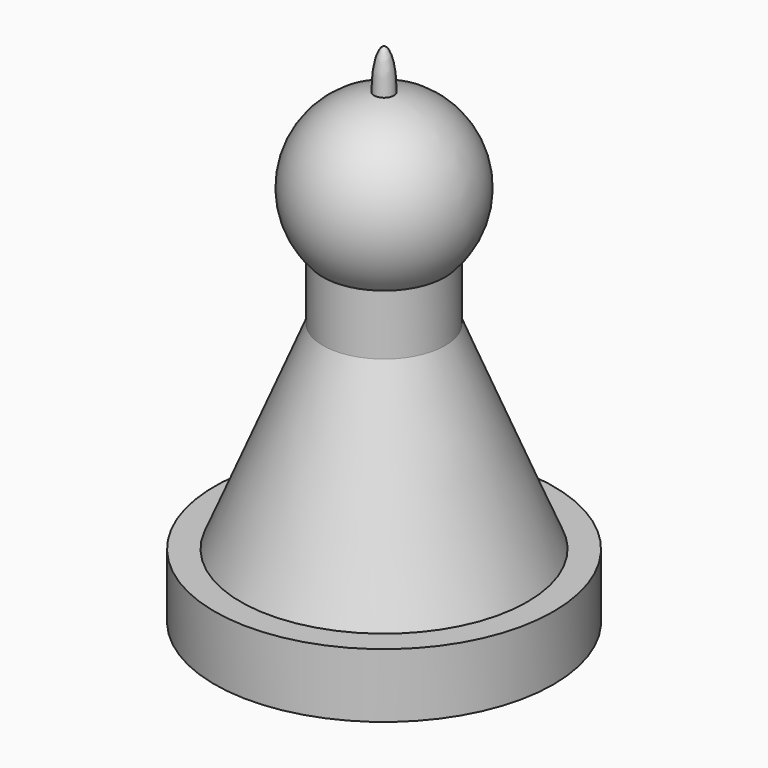
from build123d import *


with BuildPart() as f1:
    # F0 (on Front) → F1 (revolve)
    with BuildSketch(Plane.XZ):
        with BuildLine():
            Line((0, 17.8337320685), (0, -54.8152588308))
            Line((0, -54.8152588308), (24.3101920933, -54.8152588308))
            Line((24.3101920933, -54.8152588308), (24.3101920933, -45.6168055534))
            Line((24.3101920933, -45.6168055534), (20.561552414, -45.6168055534))
            Line((20.561552414, -45.6168055534), (8.7669930706, -17.0896715711))
            Line((8.7669930706, -17.0896715711), (8.7669930706, -8.4479902372))
            ThreePointArc((8.7669930706, -8.4479902372), (11.4638422011, 4.0998815271), (1.4212700133, 12.0916788783))
            add(Edge.make_bspline(
                [(1.4212700133, 12.0916788783), (1.4424893444, 17.8337320685), (0, 17.8337320685)],
                knots=[4.6976782329, 4.6976782329, 4.6976782329, 6.2831853072, 6.2831853072, 6.2831853072], degree=2, weights=[1, 0.7018866658, 1]))
        make_face()
    revolve(axis=Axis((0, 0, 0.3754459321), (0, 0, -1)))


solid = f1.part
